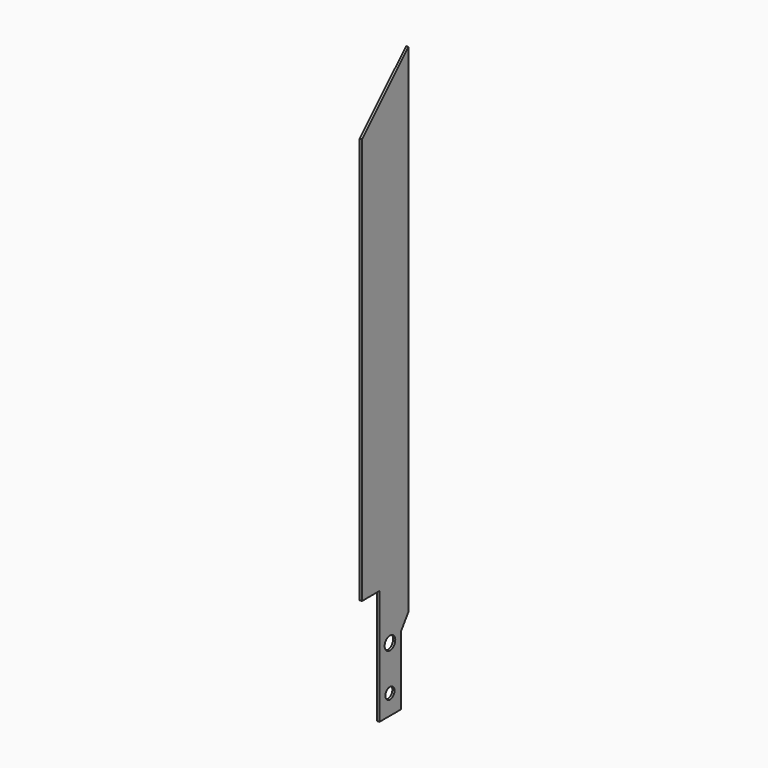
from build123d import *

# Parameters (mm, degrees)
F0_R     = 4.973557
F0_R_2   = 5.819766
F1_DEPTH = 1.89738
F2_DEPTH = 1.89738
F5_DEPTH = 25.4
F6_W     = 20.362974
F6_H     = 103.774652
F7_DEPTH = 1.89838


with BuildPart() as f1:
    # F0 (on Right) → F1 (new body)
    with BuildSketch(Plane.YZ):
        Polygon((20.065772, -302.329028), (20.065772, 205.670972), (-30.734228, 154.870972), (-30.734228, -302.329028), align=None)
        with Locations((0, -284.892797)):
            Circle(F0_R, mode=Mode.SUBTRACT)
        with Locations((0, -246.153131)):
            Circle(F0_R_2, mode=Mode.SUBTRACT)
    extrude(amount=F1_DEPTH)

    # F0 (on Right) → F2 (join)
    with BuildSketch(Plane.YZ):
        Polygon((20.065772, -302.329028), (20.065772, 205.670972), (-30.734228, 154.870972), (-30.734228, -302.329028), align=None)
        with Locations((0, -284.892797)):
            Circle(F0_R, mode=Mode.SUBTRACT)
        with Locations((0, -246.153131)):
            Circle(F0_R_2, mode=Mode.SUBTRACT)
    extrude(amount=F2_DEPTH)

    # F4 (on face) → F5 (cut)
    with BuildSketch(Plane.YZ.offset(1.89738)):
        Polygon((-30.734228, -234.08674), (-31.288195, -233.662769), (-31.288195, -303.030223), (-19.98027, -303.18138), (-19.98027, -302.329028), (-30.734228, -302.329028), align=None)
        Polygon((20.065772, -302.329028), (11.948531, -302.329028), (11.948531, -303.18138), (20.324497, -303.18138), (20.928504, -229.346052), (20.065772, -230.59222), align=None)
        Polygon((11.948531, -242.317125), (11.948531, -302.329028), (20.065772, -302.329028), (20.065772, -230.59222), align=None)
        Polygon((-19.98027, -242.317125), (-30.734228, -234.08674), (-30.734228, -302.329028), (-19.98027, -302.329028), align=None)
    extrude(amount=-F5_DEPTH, mode=Mode.SUBTRACT)

    # F6 (on Right) → F7 (cut, through all)
    with BuildSketch(Plane.YZ):
        with Locations((-21.773375, -253.215976)):
            Rectangle(F6_W, F6_H)
    extrude(amount=F7_DEPTH, mode=Mode.SUBTRACT)


solid = f1.part
